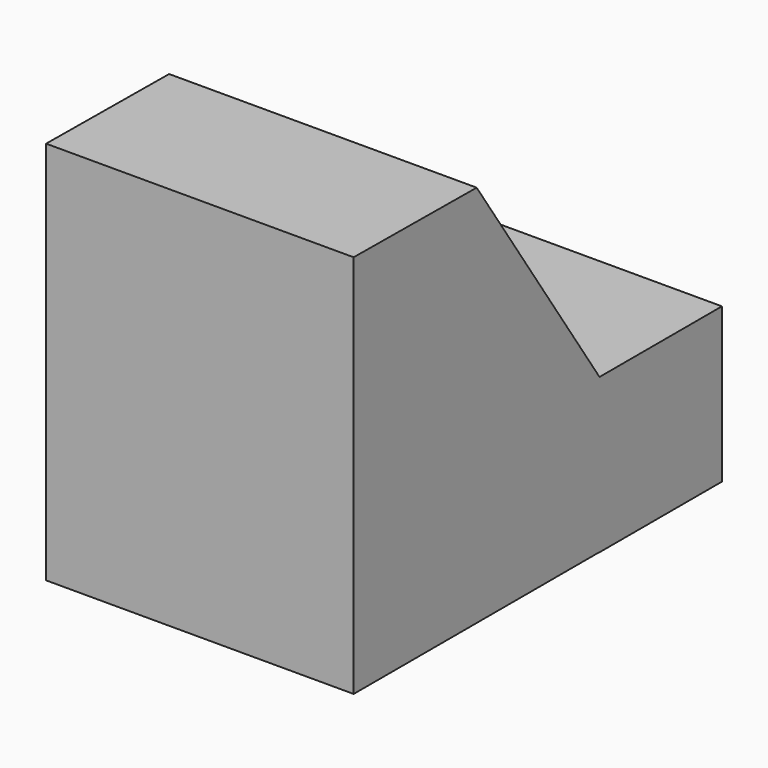
from build123d import *

# Parameters (mm, degrees)
F1_DEPTH = 25.4
F3_DEPTH = 25.4
F4_W     = 12.683143
F4_H     = 12.7472
F5_DEPTH = 25.4


with BuildPart() as f1:
    # F0 (on Right) → F1 (new body)
    with BuildSketch(Plane.YZ):
        Polygon((-20.469976, 32.562451), (-45.869976, 32.76404), (-45.869976, 1.01404), (-20.469976, 1.01404), align=None)
    extrude(amount=F1_DEPTH)

    # F2 (on face) → F3 (cut)
    with BuildSketch(Plane.YZ.offset(25.4)):
        Polygon((-20.469976, 32.562451), (-33.169976, 32.663246), (-20.469976, 13.71404), align=None)
    extrude(amount=-F3_DEPTH, mode=Mode.SUBTRACT)

    # F4 (on Right) → F5 (join)
    with BuildSketch(Plane.YZ):
        with Locations((-14.194957, 7.370238)):
            Rectangle(F4_W, F4_H)
    extrude(amount=F5_DEPTH)


solid = f1.part
